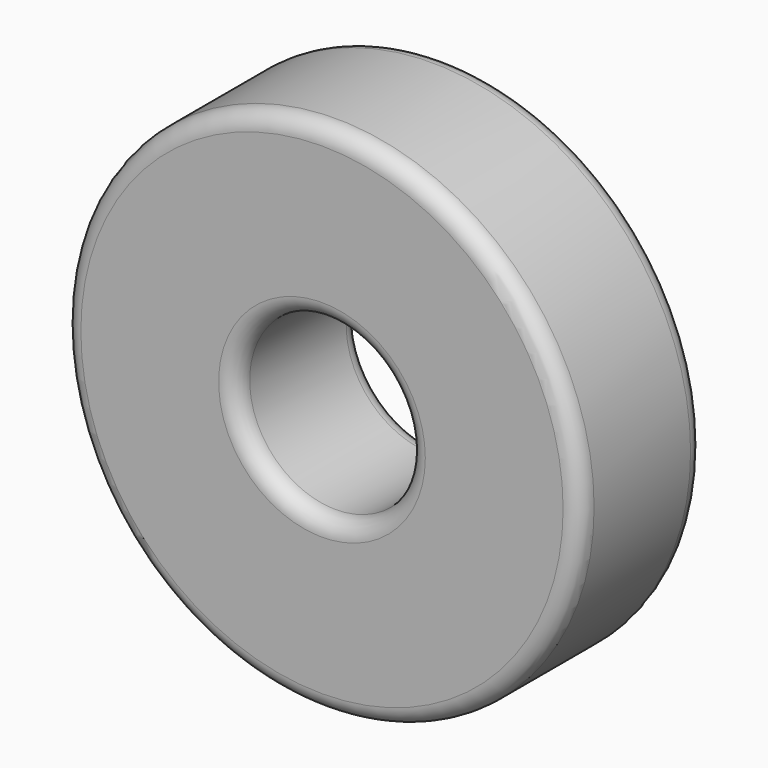
from build123d import *

# Parameters (mm, degrees)
F0_R     = 15
F0_R_2   = 5
F1_DEPTH = 9
F2_R     = 1


with BuildPart() as f1:
    # F0 (on Front) → F1 (new body)
    with BuildSketch(Plane.XZ):
        Circle(F0_R)
        Circle(F0_R_2, mode=Mode.SUBTRACT)
    extrude(amount=F1_DEPTH)

    # F2
    f2_edges = [f1.edges().sort_by_distance(p)[0] for p in [
        (15, -4.5, 0),
        (-15, 0, 0),
        (-15, -9, 0),
        (5, -4.5, 0),
        (-5, 0, 0),
        (-5, -9, 0),
    ]]
    fillet(f2_edges, radius=F2_R)


solid = f1.part
